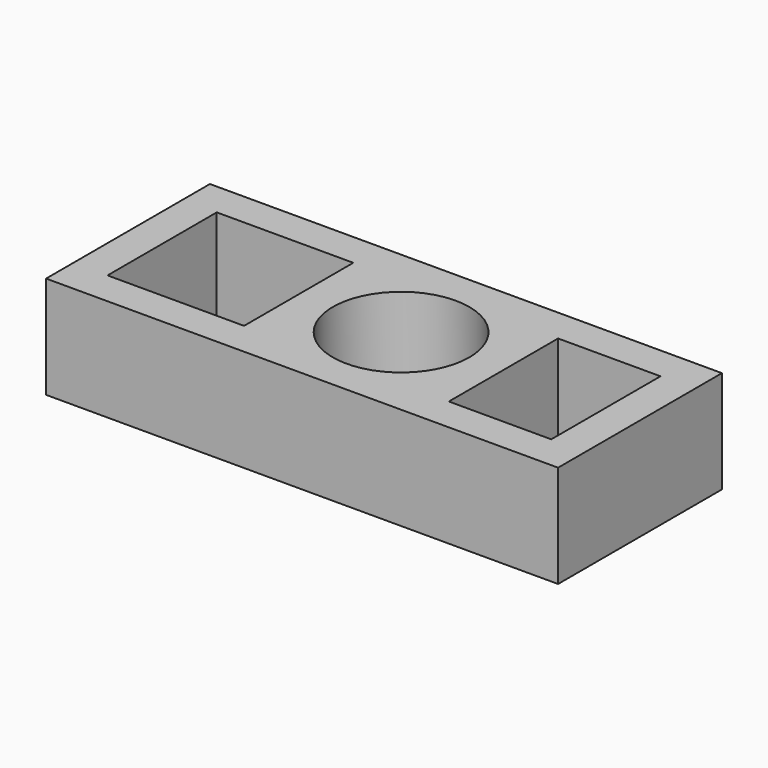
from build123d import *

# Parameters (mm, degrees)
F0_W     = 75
F0_H     = 15
F1_DEPTH = 30
F2_W     = 20
F2_H     = 20
F3_DEPTH = 15
F4_R     = 10
F5_DEPTH = 15
F6_W     = 15
F6_H     = 20
F7_DEPTH = 15


with BuildPart() as f1:
    # F0 (on Front) → F1 (new body)
    with BuildSketch(Plane.XZ):
        with Locations((21.590133, 5.310398)):
            Rectangle(F0_W, F0_H)
    extrude(amount=F1_DEPTH)

    # F2 (on face) → F3 (cut)
    with BuildSketch(Plane.XY.offset(12.810398)):
        with Locations((-0.909867, -15)):
            Rectangle(F2_W, F2_H)
    extrude(amount=-F3_DEPTH, mode=Mode.SUBTRACT)

    # F4 (on face) → F5 (cut)
    with BuildSketch(Plane.XY.offset(12.810398)):
        with Locations((24.090133, -15)):
            Circle(F4_R)
    extrude(amount=-F5_DEPTH, mode=Mode.SUBTRACT)

    # F6 (on face) → F7 (cut)
    with BuildSketch(Plane.XY.offset(12.810398)):
        with Locations((46.590133, -15)):
            Rectangle(F6_W, F6_H)
    extrude(amount=-F7_DEPTH, mode=Mode.SUBTRACT)


solid = f1.part
